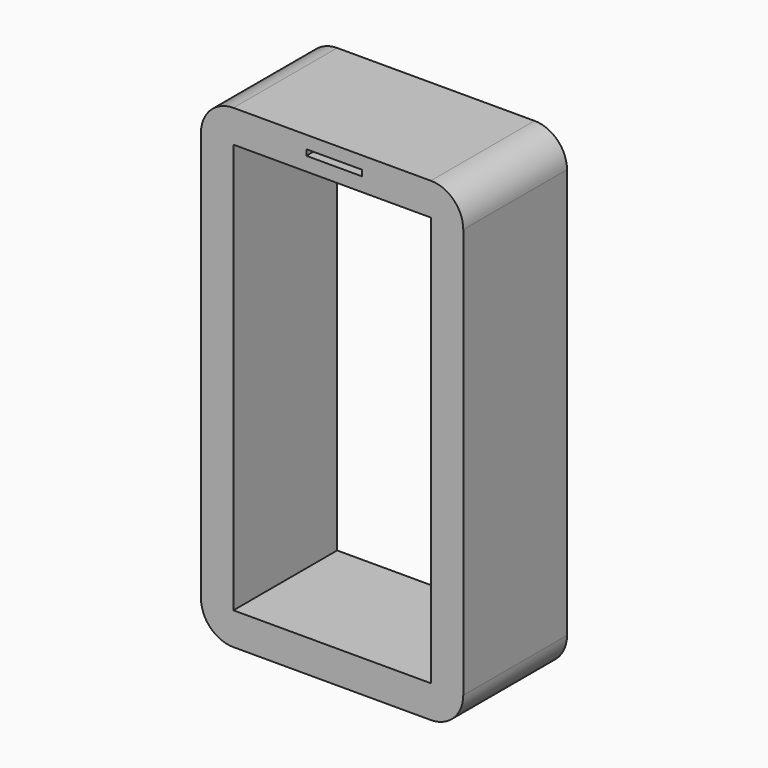
from build123d import *

# Parameters (mm, degrees)
F0_W     = 10.8844153583
F0_H     = 1.1457279325
F1_DEPTH = 25.4


with BuildPart() as f1:
    # F0 (on Front) → F1 (new body)
    with BuildSketch(Plane.XZ):
        with BuildLine():
            Line((2.8158243909, 41.8190695345), (-35.8509788454, 41.8190695345))
            ThreePointArc((-35.8509788454, 41.8190695345), (-40.3411069059, 39.9591975951), (-42.2009788454, 35.4690695345))
            Line((-42.2009788454, 35.4690695345), (-42.2009788454, -44.8258476496))
            ThreePointArc((-42.2009788454, -44.8258476496), (-40.3411069059, -49.3159757101), (-35.8509788454, -51.1758476496))
            Line((-35.8509788454, -51.1758476496), (-16.8040137117, -51.1758476496))
            ThreePointArc((-16.8040137117, -51.1758476496), (-19.7564134277, -48.2901591682), (-17.5108828007, -44.8258476496))
            Line((-17.5108828007, -44.8258476496), (-35.8509788454, -44.8258476496))
            Line((-35.8509788454, -44.8258476496), (-35.8509788454, 35.4690695345))
            Line((-35.8509788454, 35.4690695345), (2.8158243909, 35.4690695345))
            Line((2.8158243909, 35.4690695345), (2.8158243909, -44.8258476496))
            Line((2.8158243909, -44.8258476496), (-15.5242716537, -44.8258476496))
            ThreePointArc((-15.5242716537, -44.8258476496), (-13.8853656886, -46.0082877402), (-13.2587354849, -47.9296185076))
            ThreePointArc((-13.2587354849, -47.9296185076), (-14.114090107, -50.1303681901), (-16.2311407427, -51.1758476496))
            Line((-16.2311407427, -51.1758476496), (2.8158243909, -51.1758476496))
            ThreePointArc((2.8158243909, -51.1758476496), (7.3059524515, -49.3159757101), (9.1658243909, -44.8258476496))
            Line((9.1658243909, -44.8258476496), (9.1658243909, 35.4690695345))
            ThreePointArc((9.1658243909, 35.4690695345), (7.3059524515, 39.9591975951), (2.8158243909, 41.8190695345))
        make_face()
        with Locations((-16.135668382, 38.763795048)):
            Rectangle(F0_W, F0_H, mode=Mode.SUBTRACT)
        with BuildLine():
            ThreePointArc((-17.5108828007, -44.8258476496), (-19.7564134277, -48.2901591682), (-16.8040137117, -51.1758476496))
            Line((-16.8040137117, -51.1758476496), (-16.2311407427, -51.1758476496))
            ThreePointArc((-16.2311407427, -51.1758476496), (-14.114090107, -50.1303681901), (-13.2587354849, -47.9296185076))
            ThreePointArc((-13.2587354849, -47.9296185076), (-13.8853656886, -46.0082877402), (-15.5242716537, -44.8258476496))
            Line((-15.5242716537, -44.8258476496), (-17.5108828007, -44.8258476496))
        make_face()
        with BuildLine():
            Line((-16.2311407427, -51.1758476496), (-16.8040137117, -51.1758476496))
            ThreePointArc((-16.8040137117, -51.1758476496), (-16.5175772272, -51.18846025), (-16.2311407427, -51.1758476496))
        make_face()
    extrude(amount=F1_DEPTH)


solid = f1.part
